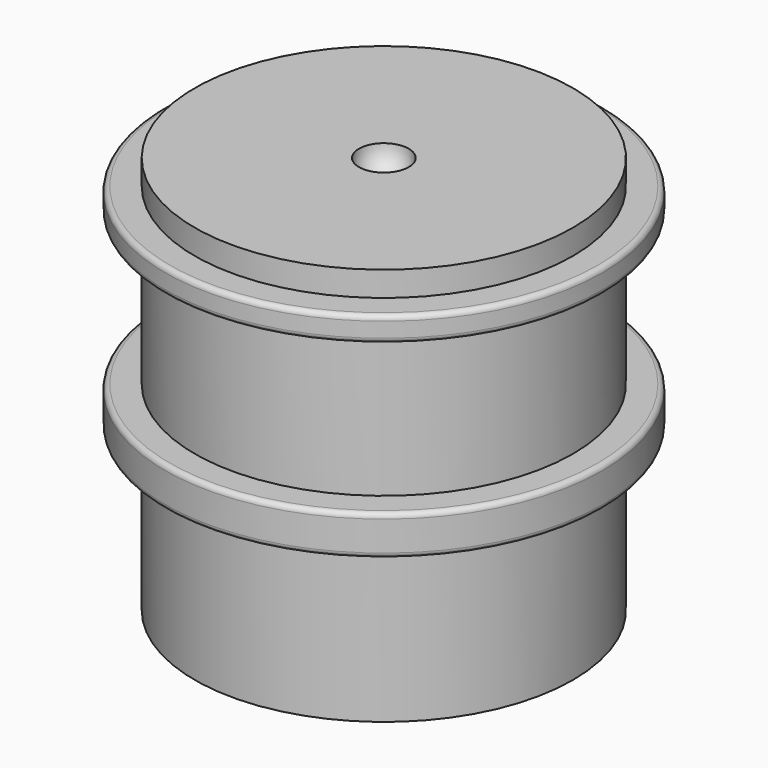
from build123d import *

# Parameters (mm, degrees)
F0_W   = 1.3
F0_H   = 2.5
F0_W_2 = 1.7
F0_W_3 = 2.5
F0_H_2 = 10.6689085803
F0_H_3 = 3.8655457098
F0_H_4 = 4
F0_H_5 = 16
F0_W_4 = 13.5


with BuildPart() as f1:
    # F0 (on Front) → F1 (revolve)
    with BuildSketch(Plane.XZ):
        with Locations((16.65, 14.8844542902)):
            Rectangle(F0_W, F0_H)
        Polygon((16, 13.6344542902), (16, 16.1344542902), (2.5, 16.1344542902), (2.5, 13.1048886105), align=None)
        with Locations((18.15, 14.8844542902)):
            Rectangle(F0_W_2, F0_H)
        with BuildLine():
            Line((2.5, 13.1048886105), (2.5, 16.1344542902))
            ThreePointArc((2.5, 16.1344542902), (1.767766953, 14.3666873372), (0, 13.6344542902))
            Line((0, 13.6344542902), (0, 11.1344542902))
            Line((0, 11.1344542902), (0, 10.6689085803))
            Line((0, 10.6689085803), (2.5, 10.6689085803))
            Line((2.5, 10.6689085803), (2.5, 13.1048886105))
        make_face()
        with Locations((18.15, 12.3844542902)):
            Rectangle(F0_W_2, F0_H)
        with BuildLine():
            Line((21.5, 13.6344542902), (19, 13.6344542902))
            Line((19, 13.6344542902), (19, 11.1344542902))
            Line((19, 11.1344542902), (21.5, 11.1344542902))
            ThreePointArc((21.5, 11.1344542902), (21.8535533906, 11.2809008996), (22, 11.6344542902))
            Line((22, 11.6344542902), (22, 13.1344542902))
            ThreePointArc((22, 13.1344542902), (21.8535533906, 13.4880076808), (21.5, 13.6344542902))
        make_face()
        Polygon((19, 11.1344542902), (17.3, 11.1344542902), (17.3, 10.6689085803), (17.3, 6.6344542902), (17.3, 4.0344542902), (17.3, 0), (17.3, -3.8655457098), (19, -3.8655457098), align=None)
        with Locations((1.25, 5.3344542902)):
            Rectangle(F0_W_3, F0_H_2)
        with Locations((1.25, -1.9327728549)):
            Rectangle(F0_W_3, F0_H_3)
        with BuildLine():
            Line((21.5, -3.8655457098), (19, -3.8655457098))
            Line((19, -3.8655457098), (19, -7.8655457098))
            Line((19, -7.8655457098), (21.5, -7.8655457098))
            ThreePointArc((21.5, -7.8655457098), (21.8535533906, -7.7190991004), (22, -7.3655457098))
            Line((22, -7.3655457098), (22, -4.3655457098))
            ThreePointArc((22, -4.3655457098), (21.8535533906, -4.0119923192), (21.5, -3.8655457098))
        make_face()
        with Locations((18.15, -5.8655457098)):
            Rectangle(F0_W_2, F0_H_4)
        with Locations((1.25, -5.8655457098)):
            Rectangle(F0_W_3, F0_H_4)
        with Locations((18.15, -15.8655457098)):
            Rectangle(F0_W_2, F0_H_5)
        with Locations((9.25, -15.8655457098)):
            Rectangle(F0_W_4, F0_H_5)
        with Locations((1.25, -15.8655457098)):
            Rectangle(F0_W_3, F0_H_5)
        with Locations((16.65, -15.8655457098)):
            Rectangle(F0_W, F0_H_5)
    revolve(axis=Axis((0, 0, -3.389431617), (0, 0, -1)))


solid = f1.part
